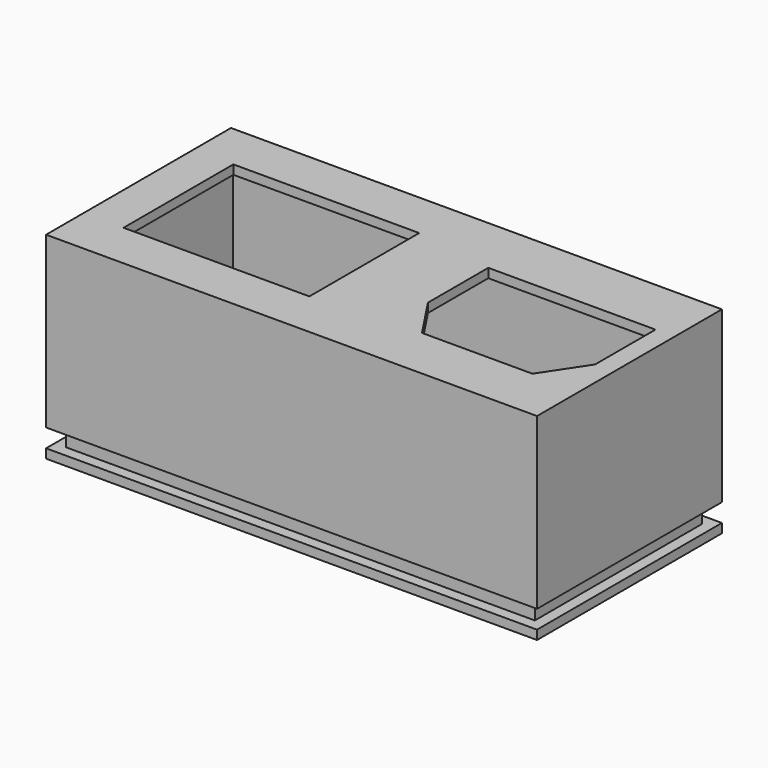
from build123d import *

# Parameters (mm, degrees)
F0_W      = 79.0448
F0_H      = 37.211
F0_W_2    = 75.438
F0_H_2    = 33.528
F1_DEPTH  = 31.75
F0_W_3    = 29.9212
F0_H_3    = 22.098
F2_DEPTH  = 1.4732
F5_DEPTH  = 35.3695
F7_DEPTH  = 77.2414
F8_W      = 1.778
F8_H      = 2.9464
F9_DEPTH  = 37.211
F10_W     = 1.778
F10_H     = 2.9464
F11_DEPTH = 75.4888


with BuildPart() as f1:
    # F0 (on Top) → F1 (new body)
    with BuildSketch(Plane.XY):
        Rectangle(F0_W, F0_H)
        Rectangle(F0_W_2, F0_H_2, mode=Mode.SUBTRACT)
    extrude(amount=-F1_DEPTH)

    # F0 (on Top) → F2 (join)
    with BuildSketch(Plane.XY):
        Rectangle(F0_W_2, F0_H_2)
        with Locations((-18.1356, 0)):
            Rectangle(F0_W_3, F0_H_3, mode=Mode.SUBTRACT)
        Polygon((9.525, 9.0805), (36.449, 9.0805), (36.449, -3.07601), (31.877, -9.9695), (14.097, -9.9695), (9.525, -3.07601), align=None, mode=Mode.SUBTRACT)
    extrude(amount=-F2_DEPTH)

    # F4 (on face) → F5 (join, through all)
    with BuildSketch(Plane.XZ.offset(18.6055)):
        with BuildLine():
            Line((-37.719, -25.8572), (-37.719, -31.75))
            ThreePointArc((-37.719, -31.75), (-34.7726, -28.8036), (-37.719, -25.8572))
        make_face()
        with BuildLine():
            Line((37.719, -31.75), (37.719, -25.8572))
            ThreePointArc((37.719, -25.8572), (34.7726, -28.8036), (37.719, -31.75))
        make_face()
    extrude(amount=-F5_DEPTH)

    # F6 (on face) → F7 (join, through all)
    with BuildSketch(Plane(origin=(-39.5224, 0, 0), x_dir=(0, -1, 0), z_dir=(-1, 0, 0))):
        with BuildLine():
            Line((-16.764, -25.8572), (-16.764, -31.75))
            ThreePointArc((-16.764, -31.75), (-13.8176, -28.8036), (-16.764, -25.8572))
        make_face()
        with BuildLine():
            Line((16.764, -31.75), (16.764, -25.8572))
            ThreePointArc((16.764, -25.8572), (13.8176, -28.8036), (16.764, -31.75))
        make_face()
    extrude(amount=-F7_DEPTH)

    # F8 (on face) → F9 (cut, through all)
    with BuildSketch(Plane.XZ.offset(18.6055)):
        with Locations((-38.6334, -28.8036)):
            Rectangle(F8_W, F8_H)
        with Locations((38.6334, -28.8036)):
            Rectangle(F8_W, F8_H)
    extrude(amount=-F9_DEPTH, mode=Mode.SUBTRACT)

    # F10 (on face) → F11 (cut, through all)
    with BuildSketch(Plane(origin=(-37.7444, 0, 0), x_dir=(0, -1, 0), z_dir=(-1, 0, 0))):
        with Locations((-17.7165, -28.8036)):
            Rectangle(F10_W, F10_H)
        with Locations((17.7165, -28.8036)):
            Rectangle(F10_W, F10_H)
    extrude(amount=-F11_DEPTH, mode=Mode.SUBTRACT)


solid = f1.part
